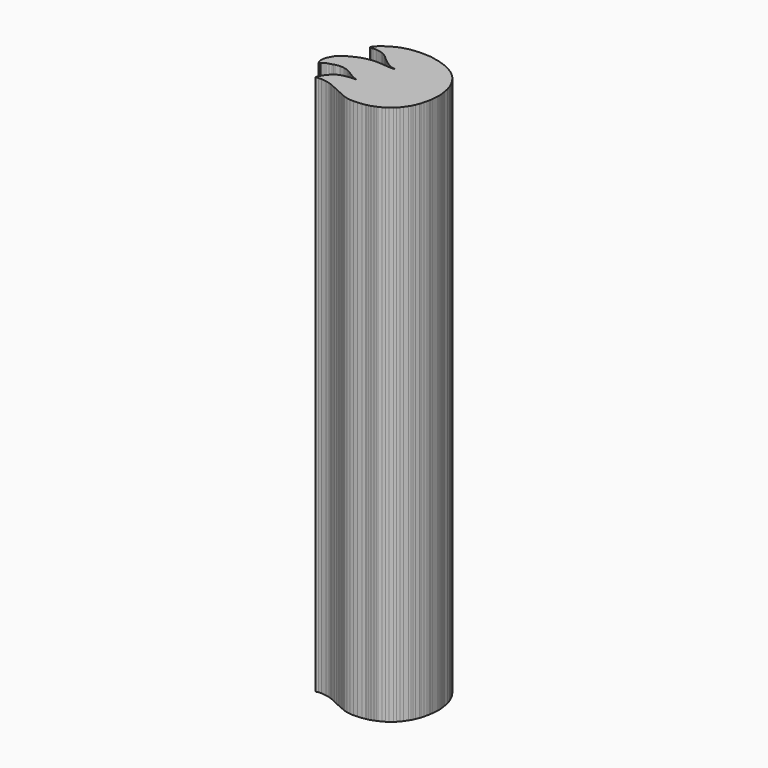
from build123d import *

# Parameters (mm, degrees)
F1_DEPTH = 25


with BuildPart() as f1:
    # F0 (on Top) → F1 (new body)
    with BuildSketch(Plane.XY):
        Polygon((0.05556, -2.20295), (0.22906, -2.22834), (0.38895, -2.23361), (0.57645, -2.2272), (0.75776, -2.21115), (0.8991, -2.18761), (0.94553, -2.17719), (0.99408, -2.16764), (1.04807, -2.1569), (1.09235, -2.14545), (1.13493, -2.1308), (1.18408, -2.11057), (1.21914, -2.09543), (1.26286, -2.0767), (1.30968, -2.05675), (1.35406, -2.03797), (1.49474, -1.97422), (1.61117, -1.90988), (1.72006, -1.83452), (1.83833, -1.73784), (1.9234, -1.65907), (2.00065, -1.57297), (2.08464, -1.4618), (2.18978, -1.30783), (2.23867, -1.23107), (2.2786, -1.15684), (2.32195, -1.0594), (2.3814, -0.91287), (2.40408, -0.84119), (2.43615, -0.72498), (2.46804, -0.60015), (2.49013, -0.50282), (2.49658, -0.46104), (2.50413, -0.39833), (2.51221, -0.32144), (2.52018, -0.2373), (2.5274, -0.1525), (2.53338, -0.074), (2.53733, -0.00851), (2.53879, 0.03717), (2.53581, 0.1128), (2.52876, 0.18218), (2.52333, 0.2181), (2.51601, 0.26774), (2.5076, 0.32466), (2.49925, 0.38217), (2.45247, 0.62387), (2.38607, 0.82216), (2.33621, 0.93409), (2.28282, 1.04309), (2.23139, 1.13846), (2.18739, 1.20948), (2.16661, 1.23942), (2.14215, 1.27485), (2.11697, 1.31137), (2.09418, 1.34446), (2.04096, 1.41357), (1.97038, 1.49062), (1.88129, 1.57688), (1.77246, 1.67356), (1.68186, 1.74268), (1.56869, 1.81512), (1.44032, 1.8865), (1.3041, 1.95236), (1.2755, 1.96528), (1.24951, 1.97727), (1.22896, 1.98693), (1.21669, 1.99295), (1.20139, 1.99946), (1.18907, 2.00217), (1.16939, 2.00787), (1.13645, 2.02155), (1.1121, 2.03157), (1.0771, 2.0446), (1.03619, 2.05892), (0.99408, 2.07281), (0.95367, 2.08584), (0.91754, 2.0976), (0.88971, 2.10688), (0.87408, 2.11231), (0.84126, 2.12327), (0.80524, 2.13282), (0.77192, 2.1396), (0.74751, 2.14214), (0.72549, 2.14535), (0.68349, 2.15392), (0.62756, 2.16662), (0.5637, 2.18207), (0.47689, 2.20281), (0.412, 2.21506), (0.35433, 2.22109), (0.28907, 2.22299), (0.23688, 2.22396), (0.1799, 2.22575), (0.125, 2.22814), (0.07906, 2.2308), (-0.04335, 2.23361), (-0.19092, 2.22727), (-0.35226, 2.21268), (-0.51594, 2.19055), (-0.62039, 2.16923), (-0.74506, 2.13732), (-0.86393, 2.102), (-0.95096, 2.07042), (-0.9745, 2.0606), (-0.99593, 2.05225), (-1.04682, 2.02935), (-1.11951, 1.99214), (-1.19162, 1.95253), (-1.24078, 1.92225), (-1.26258, 1.9081), (-1.27533, 1.90218), (-1.28603, 1.89671), (-1.31043, 1.88163), (-1.34494, 1.85938), (-1.38596, 1.83214), (-1.42692, 1.80502), (-1.46132, 1.78277), (-1.48557, 1.76768), (-1.49604, 1.76216), (-1.51307, 1.75077), (-1.54747, 1.72032), (-1.59326, 1.67638), (-1.64436, 1.62452), (-1.69629, 1.56706), (-1.73964, 1.51264), (-1.76936, 1.4681), (-1.7806, 1.44006), (-1.77451, 1.42248), (-1.75987, 1.40375), (-1.74283, 1.39014), (-1.72954, 1.38803), (-1.6996, 1.39931), (-1.65207, 1.41038), (-1.59967, 1.41878), (-1.55485, 1.42216), (-1.479, 1.4177), (-1.38514, 1.40582), (-1.2889, 1.38895), (-1.20594, 1.36937), (-1.16303, 1.35374), (-1.11593, 1.33198), (-1.02143, 1.27995), (-0.94368, 1.22798), (-0.86083, 1.15967), (-0.75092, 1.0586), (-0.72672, 1.03641), (-0.70139, 1.01412), (-0.67789, 0.99437), (-0.65929, 0.97966), (-0.6295, 0.9566), (-0.60932, 0.93918), (-0.59603, 0.92845), (-0.57144, 0.91064), (-0.53954, 0.88841), (-0.50412, 0.86432), (-0.46918, 0.84105), (-0.43847, 0.82118), (-0.41601, 0.80735), (-0.4056, 0.80214), (-0.38856, 0.79335), (-0.35596, 0.77214), (-0.32357, 0.75098), (-0.3069, 0.74214), (-0.28754, 0.73503), (-0.24837, 0.71784), (-0.18636, 0.69135), (-0.1353, 0.67427), (-0.08957, 0.6651), (-0.04346, 0.66234), (0.00678, 0.65941), (0.01633, 0.65256), (-0.01172, 0.64427), (-0.07437, 0.63699), (-0.15879, 0.63531), (-0.27268, 0.63955), (-0.40408, 0.64905), (-0.5409, 0.66314), (-0.58468, 0.6671), (-0.64828, 0.67134), (-0.72319, 0.67524), (-0.80094, 0.67839), (-0.94721, 0.68045), (-1.07357, 0.67345), (-1.20617, 0.65495), (-1.37093, 0.6223), (-1.44342, 0.602), (-1.53705, 0.56934), (-1.6353, 0.53055), (-1.72146, 0.4917), (-1.76562, 0.47017), (-1.80849, 0.44943), (-1.84526, 0.43198), (-1.87093, 0.42009), (-1.94037, 0.3865), (-2.01394, 0.34674), (-2.08121, 0.3067), (-2.132, 0.27214), (-2.222, 0.20014), (-2.28846, 0.13689), (-2.34196, 0.07118), (-2.39268, -0.00813), (-2.47846, -0.18012), (-2.5275, -0.3405), (-2.53879, -0.48394), (-2.51128, -0.60536), (-2.49799, -0.63394), (-2.48682, -0.64973), (-2.47374, -0.65641), (-2.45469, -0.65782), (-2.43087, -0.65483), (-2.42094, -0.64783), (-2.41764, -0.64079), (-2.40967, -0.63786), (-2.391, -0.62815), (-2.36192, -0.60493), (-2.31304, -0.5714), (-2.23979, -0.53759), (-2.14111, -0.50315), (-2.01594, -0.46761), (-1.95621, -0.45133), (-1.91092, -0.43782), (-1.70751, -0.39876), (-1.50379, -0.41818), (-1.39529, -0.4465), (-1.30447, -0.47775), (-1.22461, -0.5147), (-1.14897, -0.56), (-1.12619, -0.57465), (-1.10617, -0.58669), (-1.09103, -0.59477), (-1.083, -0.59782), (-1.07135, -0.60368), (-1.05593, -0.61783), (-1.04047, -0.63194), (-1.02869, -0.63786), (-1.00943, -0.64665), (-0.9759, -0.66786), (-0.94228, -0.68901), (-0.92247, -0.69786), (-0.90929, -0.70659), (-0.89914, -0.7143), (-0.87457, -0.72825), (-0.84022, -0.74625), (-0.80067, -0.766), (-0.76053, -0.78526), (-0.72428, -0.80186), (-0.69667, -0.81341), (-0.68218, -0.81782), (-0.669, -0.82041), (-0.65332, -0.82682), (-0.63374, -0.83615), (-0.61094, -0.84613), (-0.6021, -0.85134), (-0.60753, -0.8547), (-0.62967, -0.85676), (-0.67094, -0.85795), (-0.73833, -0.85975), (-0.78092, -0.86197), (-0.8801, -0.87229), (-0.95193, -0.88129), (-1.02018, -0.8923), (-1.10844, -0.90884), (-1.16319, -0.92138), (-1.22168, -0.93832), (-1.27858, -0.95784), (-1.32833, -0.97834), (-1.36128, -0.99208), (-1.3808, -0.99783), (-1.39094, -1.00623), (-1.39811, -1.01534), (-1.41514, -1.02566), (-1.46707, -1.06054), (-1.53424, -1.12152), (-1.60725, -1.19922), (-1.6766, -1.28423), (-1.72624, -1.359), (-1.77892, -1.45122), (-1.82249, -1.53836), (-1.84494, -1.59793), (-1.84629, -1.62044), (-1.84136, -1.63709), (-1.8318, -1.64507), (-1.81917, -1.64159), (-1.73133, -1.61469), (-1.58268, -1.61691), (-1.35378, -1.64512), (-1.1959, -1.67854), (-1.10747, -1.70632), (-1.02528, -1.73697), (-0.93212, -1.7774), (-0.81093, -1.83458), (-0.64469, -1.91368), (-0.5409, -1.96072), (-0.49924, -1.97894), (-0.44812, -2.00179), (-0.40358, -2.02018), (-0.37765, -2.02783), (-0.35542, -2.03711), (-0.34424, -2.04389), (-0.32085, -2.05566), (-0.28857, -2.07069), (-0.25092, -2.0874), (-0.20985, -2.10514), (-0.178, -2.11891), (-0.15358, -2.1295), (-0.13465, -2.13769), (-0.11936, -2.14436), (-0.10574, -2.15033), (-0.09196, -2.15636), (-0.07606, -2.16341), align=None)
    extrude(amount=F1_DEPTH)


solid = f1.part
